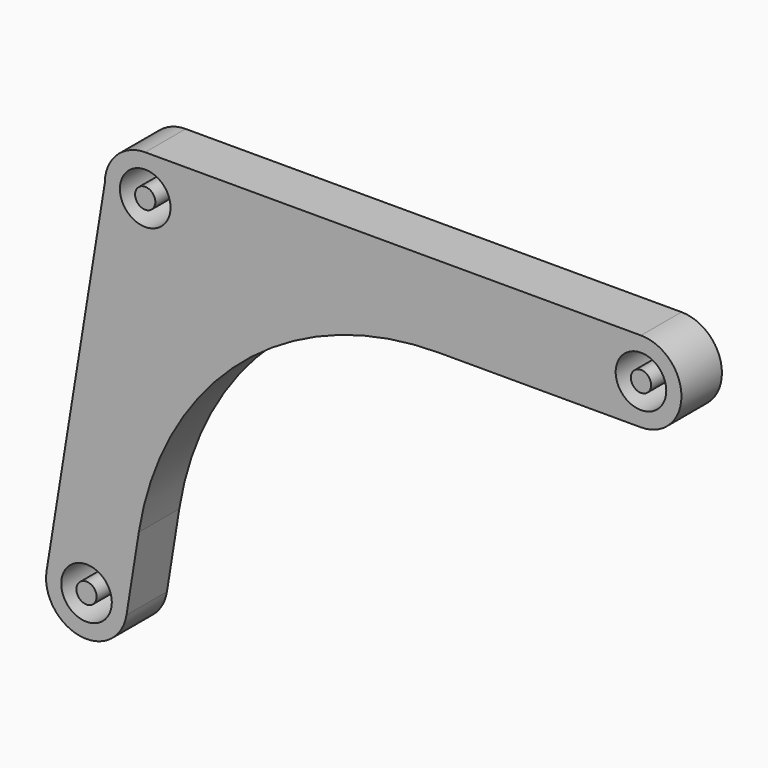
from build123d import *

# Parameters (mm, degrees)
F0_R     = 63.5
F0_R_2   = 25.4
F1_DEPTH = 127


with BuildPart() as f1:
    # F0 (on Front) → F1 (new body)
    with BuildSketch(Plane.XZ):
        with BuildLine():
            Line((1391.971837, 1022.057003), (147.371837, 1022.057003))
            ThreePointArc((147.371837, 1022.057003), (75.529788, 992.299052), (45.771837, 920.457003))
            Line((45.771837, 920.457003), (-100.299788, 16.20224))
            ThreePointArc((-100.299788, 16.20224), (-16.132287, -100.311063), (100.322289, -16.062326))
            Line((100.322289, -16.062326), (131.284912, 177.324444))
            ThreePointArc((131.284912, 177.324444), (389.309621, 636.701892), (883.702081, 818.857003))
            Line((883.702081, 818.857003), (1391.971837, 818.857003))
            ThreePointArc((1391.971837, 818.857003), (1493.571837, 920.457003), (1391.971837, 1022.057003))
        make_face()
        Circle(F0_R, mode=Mode.SUBTRACT)
        with Locations((147.371837, 920.457003)):
            Circle(F0_R, mode=Mode.SUBTRACT)
        with Locations((1391.971837, 920.457003)):
            Circle(F0_R, mode=Mode.SUBTRACT)
        with Locations((147.371837, 920.457003)):
            Circle(F0_R_2)
        Circle(F0_R_2)
        with Locations((1391.971837, 920.457003)):
            Circle(F0_R_2)
    extrude(amount=F1_DEPTH)


solid = f1.part
